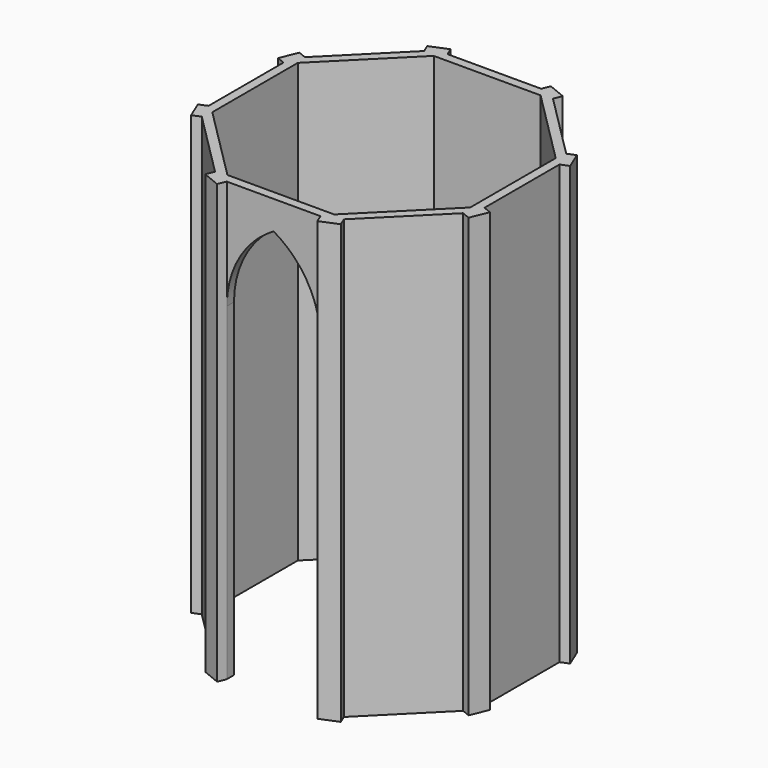
from build123d import *

# Parameters (mm, degrees)
F3_DEPTH = 584.2
F4_DEPTH = 25.4


with BuildPart() as f3:
    # F0 (on Top) → F3 (new body)
    with BuildSketch(Plane.XY):
        Polygon((-85.9201591821, 174.2429142708), (-62.4536190563, 183.9630734528), (-76.2, 183.9630734528), align=None)
        Polygon((-62.4536190563, -183.9630734528), (-85.9201591821, -174.2429142708), (-76.2, -183.9630734528), align=None)
        Polygon((90.3633098584, -184.9696288932), (85.9201591821, -174.2429142708), (76.2, -183.9630734528), (62.4536190563, -183.9630734528), (66.8967697326, -194.6897880753), align=None)
        Polygon((62.4536190563, 183.9630734528), (76.2, 183.9630734528), (85.9201591821, 174.2429142708), (90.3633098584, 184.9696288932), (66.8967697326, 194.6897880753), align=None)
        Polygon((-183.9630734528, 76.2), (-174.2429142708, 85.9201591821), (-184.9696288932, 90.3633098584), (-194.6897880753, 66.8967697326), (-183.9630734528, 62.4536190563), align=None)
        Polygon((85.9201591821, 174.2429142708), (76.2, 183.9630734528), (62.4536190563, 183.9630734528), align=None)
        Polygon((183.9630734528, -76.2), (183.9630734528, -62.4536190563), (174.2429142708, -85.9201591821), align=None)
        Polygon((-183.9630734528, -76.2), (-183.9630734528, -62.4536190563), (-194.6897880753, -66.8967697326), (-184.9696288932, -90.3633098584), (-174.2429142708, -85.9201591821), align=None)
        Polygon((-76.2, -183.9630734528), (-85.9201591821, -174.2429142708), (-90.3633098584, -184.9696288932), (-66.8967697326, -194.6897880753), (-62.4536190563, -183.9630734528), align=None)
        Polygon((85.9201591821, 174.2429142708), (62.4536190563, 183.9630734528), (-62.4536190563, 183.9630734528), (-85.9201591821, 174.2429142708), (-174.2429142708, 85.9201591821), (-183.9630734528, 62.4536190563), (-183.9630734528, -62.4536190563), (-174.2429142708, -85.9201591821), (-85.9201591821, -174.2429142708), (-62.4536190563, -183.9630734528), (62.4536190563, -183.9630734528), (85.9201591821, -174.2429142708), (174.2429142708, -85.9201591821), (183.9630734528, -62.4536190563), (183.9630734528, 62.4536190563), (174.2429142708, 85.9201591821), align=None)
        Polygon((71.2294366716, -171.9630720528), (-71.2294366716, -171.9630720528), (-171.9630720528, -71.2294366716), (-171.9630720528, 71.2294366716), (-71.2294366716, 171.9630720528), (71.2294366716, 171.9630720528), (171.9630720528, 71.2294366716), (171.9630720528, -71.2294366716), align=None, mode=Mode.SUBTRACT)
        Polygon((-174.2429142708, -85.9201591821), (-183.9630734528, -62.4536190563), (-183.9630734528, -76.2), align=None)
        Polygon((183.9630734528, 76.2), (174.2429142708, 85.9201591821), (183.9630734528, 62.4536190563), align=None)
        Polygon((184.9696288932, 90.3633098584), (174.2429142708, 85.9201591821), (183.9630734528, 76.2), (183.9630734528, 62.4536190563), (194.6897880753, 66.8967697326), align=None)
        Polygon((-76.2, 183.9630734528), (-62.4536190563, 183.9630734528), (-66.8967697326, 194.6897880753), (-90.3633098584, 184.9696288932), (-85.9201591821, 174.2429142708), align=None)
        Polygon((76.2, -183.9630734528), (85.9201591821, -174.2429142708), (62.4536190563, -183.9630734528), align=None)
        Polygon((-183.9630734528, 62.4536190563), (-174.2429142708, 85.9201591821), (-183.9630734528, 76.2), align=None)
        Polygon((194.6897880753, -66.8967697326), (183.9630734528, -62.4536190563), (183.9630734528, -76.2), (174.2429142708, -85.9201591821), (184.9696288932, -90.3633098584), align=None)
    extrude(amount=F3_DEPTH)

    # F2 (on offset) → F4 (cut)
    with BuildSketch(Plane.XZ.offset(183.9722)):
        with BuildLine():
            Line((-62.4536190563, 437.9156558341), (-62.4536190563, 313.0084177215))
            ThreePointArc((-62.4536190563, 313.0084177215), (-54.3861816169, 357.1703822562), (-31.2259793929, 395.6277312463))
            ThreePointArc((-31.2259793929, 395.6277312463), (-22.3012443417, 404.7604273088), (-12.4907230026, 412.934208818))
            ThreePointArc((-12.4907230026, 412.934208818), (-45.1918628412, 409.9855480779), (-62.4536190563, 437.9156558341))
        make_face()
        with BuildLine():
            ThreePointArc((0, 437.9156558341), (4.5964967998, 454.2233251126), (17.0328049082, 465.7301101008))
            ThreePointArc((17.0328049082, 465.7301101008), (5.812e-07, 461.6352841115), (-17.0328038727, 465.7301095724))
            ThreePointArc((-17.0328038727, 465.7301095724), (-4.5964964963, 454.2233246169), (0, 437.9156558341))
        make_face()
        with BuildLine():
            ThreePointArc((-26.7658382314, 525.3325110407), (-6.853e-07, 536.5796269791), (26.7658372722, 525.3325120196))
            ThreePointArc((26.7658372722, 525.3325120196), (14.0897227764, 536.6219623904), (0, 546.0884971561))
            ThreePointArc((0, 546.0884971561), (-14.0897233179, 536.6219619705), (-26.7658382314, 525.3325110407))
        make_face()
        with BuildLine():
            ThreePointArc((-26.7658382314, 525.3325110407), (-53.1880129986, 485.1261532748), (-62.4536190563, 437.9156558341))
            ThreePointArc((-62.4536190563, 437.9156558341), (-47.534478311, 464.5459688659), (-17.0328038727, 465.7301095724))
            ThreePointArc((-17.0328038727, 465.7301095724), (-36.9823177713, 493.0682665082), (-26.7658382314, 525.3325110407))
        make_face()
        with BuildLine():
            ThreePointArc((37.4721714338, 499.1074555453), (34.6924896396, 513.2706047207), (26.7658372722, 525.3325120196))
            ThreePointArc((26.7658372722, 525.3325120196), (-6.853e-07, 536.5796269791), (-26.7658382314, 525.3325110407))
            ThreePointArc((-26.7658382314, 525.3325110407), (-36.9823177713, 493.0682665082), (-17.0328038727, 465.7301095724))
            ThreePointArc((-17.0328038727, 465.7301095724), (5.812e-07, 461.6352841115), (17.0328049082, 465.7301101008))
            ThreePointArc((17.0328049082, 465.7301101008), (31.9563750876, 479.5382521067), (37.4721714338, 499.1074555453))
        make_face()
        with BuildLine():
            ThreePointArc((12.4907234688, 412.9342084684), (45.1918631018, 409.9855482082), (62.4536190563, 437.9156558341))
            ThreePointArc((62.4536190563, 437.9156558341), (47.5344788067, 464.5459685624), (17.0328049082, 465.7301101008))
            ThreePointArc((17.0328049082, 465.7301101008), (4.5964967998, 454.2233251126), (0, 437.9156558341))
            ThreePointArc((0, 437.9156558341), (3.2967019023, 423.9506022605), (12.4907234688, 412.9342084684))
        make_face()
        with BuildLine():
            ThreePointArc((17.0328049082, 465.7301101008), (47.5344788067, 464.5459685624), (62.4536190563, 437.9156558341))
            ThreePointArc((62.4536190563, 437.9156558341), (53.1880127395, 485.1261539093), (26.7658372722, 525.3325120196))
            ThreePointArc((26.7658372722, 525.3325120196), (34.6924896396, 513.2706047207), (37.4721714338, 499.1074555453))
            ThreePointArc((37.4721714338, 499.1074555453), (31.9563750876, 479.5382521067), (17.0328049082, 465.7301101008))
        make_face()
        with BuildLine():
            ThreePointArc((0, 313.0084177215), (8.0669826088, 357.170088762), (31.2259793929, 395.6277312463))
            ThreePointArc((31.2259793929, 395.6277312463), (22.3012445557, 404.7604271111), (12.4907234688, 412.9342084684))
            ThreePointArc((12.4907234688, 412.9342084684), (6.3690038411, 417.2449982028), (0, 421.1812590435))
            ThreePointArc((0, 421.1812590435), (-6.369003598, 417.2449983633), (-12.4907230026, 412.934208818))
            ThreePointArc((-12.4907230026, 412.934208818), (-22.3012443417, 404.7604273088), (-31.2259793929, 395.6277312463))
            ThreePointArc((-31.2259793929, 395.6277312463), (-8.0669826088, 357.170088762), (0, 313.0084177215))
        make_face()
        with BuildLine():
            ThreePointArc((-17.0328038727, 465.7301095724), (-47.534478311, 464.5459688659), (-62.4536190563, 437.9156558341))
            ThreePointArc((-62.4536190563, 437.9156558341), (-45.1918628412, 409.9855480779), (-12.4907230026, 412.934208818))
            ThreePointArc((-12.4907230026, 412.934208818), (-3.296701772, 423.950602521), (0, 437.9156558341))
            ThreePointArc((0, 437.9156558341), (-4.5964964963, 454.2233246169), (-17.0328038727, 465.7301095724))
        make_face()
        with BuildLine():
            ThreePointArc((31.2259793929, 395.6277312463), (54.3861816169, 357.1703822562), (62.4536190563, 313.0084177215))
            Line((62.4536190563, 313.0084177215), (62.4536190563, 437.9156558341))
            ThreePointArc((62.4536190563, 437.9156558341), (45.1918631018, 409.9855482082), (12.4907234688, 412.9342084684))
            ThreePointArc((12.4907234688, 412.9342084684), (22.3012445557, 404.7604271111), (31.2259793929, 395.6277312463))
        make_face()
        with BuildLine():
            ThreePointArc((0, 421.1812590435), (6.3690038411, 417.2449982028), (12.4907234688, 412.9342084684))
            ThreePointArc((12.4907234688, 412.9342084684), (3.2967019023, 423.9506022605), (0, 437.9156558341))
            ThreePointArc((0, 437.9156558341), (-3.296701772, 423.950602521), (-12.4907230026, 412.934208818))
            ThreePointArc((-12.4907230026, 412.934208818), (-6.369003598, 417.2449983633), (0, 421.1812590435))
        make_face()
        with BuildLine():
            Line((-62.4536190563, 0), (62.4536190563, 0))
            Line((62.4536190563, 0), (62.4536190563, 313.0084177215))
            ThreePointArc((62.4536190563, 313.0084177215), (54.3861816169, 357.1703822562), (31.2259793929, 395.6277312463))
            ThreePointArc((31.2259793929, 395.6277312463), (8.0669826088, 357.170088762), (0, 313.0084177215))
            ThreePointArc((0, 313.0084177215), (-8.0669826088, 357.170088762), (-31.2259793929, 395.6277312463))
            ThreePointArc((-31.2259793929, 395.6277312463), (-54.3861816169, 357.1703822562), (-62.4536190563, 313.0084177215))
            Line((-62.4536190563, 313.0084177215), (-62.4536190563, 0))
        make_face()
    extrude(amount=-F4_DEPTH, mode=Mode.SUBTRACT)


solid = f3.part
